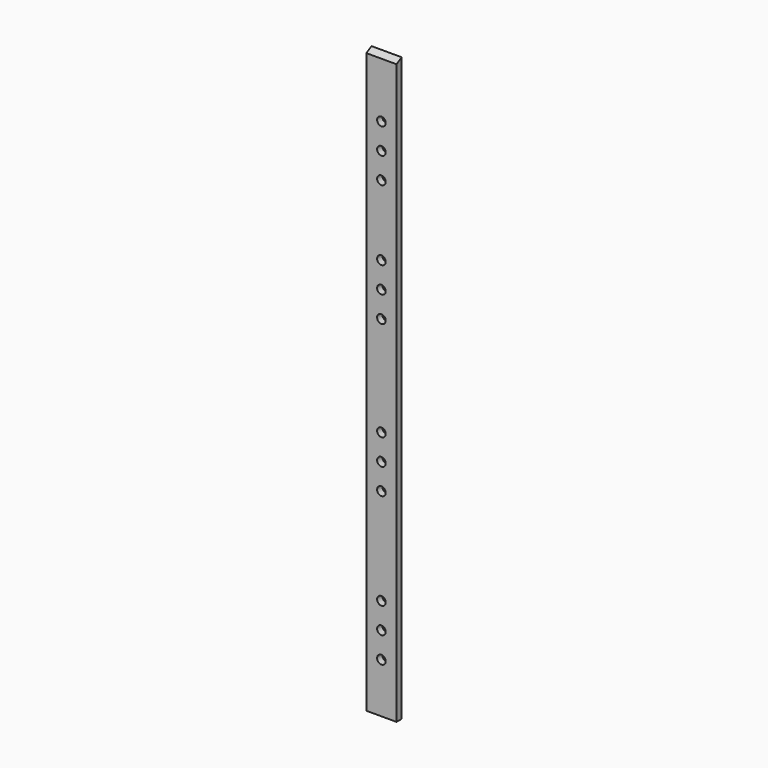
from build123d import *

# Parameters (mm, degrees)
F0_W     = 88.9
F0_H     = 1714.5
F0_R     = 12.7
F1_DEPTH = 19.05
F3_DEPTH = 88.901


with BuildPart() as f1:
    # F0 (on Front) → F1 (new body)
    with BuildSketch(Plane.XZ):
        with Locations((-2012.818174, -655.216749)):
            Rectangle(F0_W, F0_H)
        with Locations((-2012.818174, -1365.622999)):
            Circle(F0_R, mode=Mode.SUBTRACT)
        with Locations((-2012.818174, -1289.422999)):
            Circle(F0_R, mode=Mode.SUBTRACT)
        with Locations((-2012.818174, -1213.222999)):
            Circle(F0_R, mode=Mode.SUBTRACT)
        with Locations((-2012.818174, -929.060499)):
            Circle(F0_R, mode=Mode.SUBTRACT)
        with Locations((-2012.818174, -852.860499)):
            Circle(F0_R, mode=Mode.SUBTRACT)
        with Locations((-2012.818174, -776.660499)):
            Circle(F0_R, mode=Mode.SUBTRACT)
        with Locations((-2012.818174, -482.972999)):
            Circle(F0_R, mode=Mode.SUBTRACT)
        with Locations((-2012.818174, -406.772999)):
            Circle(F0_R, mode=Mode.SUBTRACT)
        with Locations((-2012.818174, -330.572999)):
            Circle(F0_R, mode=Mode.SUBTRACT)
        with Locations((-2012.818174, -123.404249)):
            Circle(F0_R, mode=Mode.SUBTRACT)
        with Locations((-2012.818174, -47.204249)):
            Circle(F0_R, mode=Mode.SUBTRACT)
        with Locations((-2012.818174, 28.995751)):
            Circle(F0_R, mode=Mode.SUBTRACT)
    extrude(amount=F1_DEPTH)

    # F2 (on face) → F3 (cut, through all)
    with BuildSketch(Plane.YZ.offset(-1968.368174)):
        Polygon((-19.05, 191.589271), (0, 202.033251), (-19.05, 202.033251), align=None)
    extrude(amount=-F3_DEPTH, mode=Mode.SUBTRACT)


solid = f1.part
